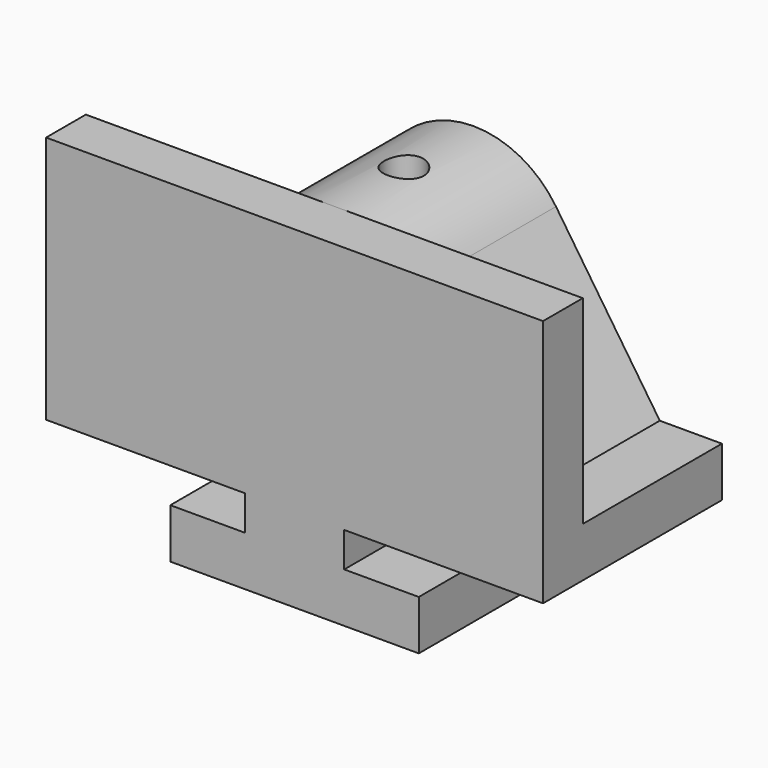
from build123d import *

# Parameters (mm, degrees)
F0_R     = 12.7
F1_DEPTH = 57.15
F2_W     = 127
F2_H     = 63.5
F3_DEPTH = 12.7
F4_DEPTH = 44.45
F5_R     = 5.08
F6_DEPTH = 13.7612578348


with BuildPart() as f1:
    # F0 (on Front) → F1 (new body)
    with BuildSketch(Plane.XZ):
        with BuildLine():
            Line((-31.75, 0), (0, 0))
            Line((0, 0), (31.75, 0))
            Line((31.75, 0), (31.75, 12.7))
            Line((31.75, 12.7), (12.7, 12.7))
            Line((12.7, 12.7), (12.7, 21.59))
            Line((12.7, 21.59), (63.5, 21.59))
            Line((63.5, 21.59), (63.5, 34.29))
            Line((63.5, 34.29), (47.625, 34.29))
            Line((47.625, 34.29), (21.0934256055, 73.8401730104))
            ThreePointArc((21.0934256055, 73.8401730104), (0, 85.09), (-21.0934256055, 73.8401730104))
            Line((-21.0934256055, 73.8401730104), (-47.625, 34.29))
            Line((-47.625, 34.29), (-63.5, 34.29))
            Line((-63.5, 34.29), (-63.5, 21.59))
            Line((-63.5, 21.59), (-12.7, 21.59))
            Line((-12.7, 21.59), (-12.7, 12.7))
            Line((-12.7, 12.7), (-31.75, 12.7))
            Line((-31.75, 12.7), (-31.75, 0))
        make_face()
        with Locations((0, 59.69)):
            Circle(F0_R, mode=Mode.SUBTRACT)
        with Locations((0, 59.69)):
            Circle(F0_R)
    extrude(amount=F1_DEPTH)

    # F2 (on face) → F3 (join)
    with BuildSketch(Plane.XZ.offset(57.15)):
        with Locations((0, 53.34)):
            Rectangle(F2_W, F2_H)
    extrude(amount=-F3_DEPTH)

    # F0 (on Front) → F4 (cut)
    with BuildSketch(Plane.XZ):
        with Locations((0, 59.69)):
            Circle(F0_R)
    extrude(amount=F4_DEPTH, mode=Mode.SUBTRACT)

    # F5 (on face) → F6 (cut, through all)
    with BuildSketch(Plane.XY.offset(85.09)):
        with Locations((0, -22.225)):
            Circle(F5_R)
    extrude(amount=-F6_DEPTH, mode=Mode.SUBTRACT)


solid = f1.part
